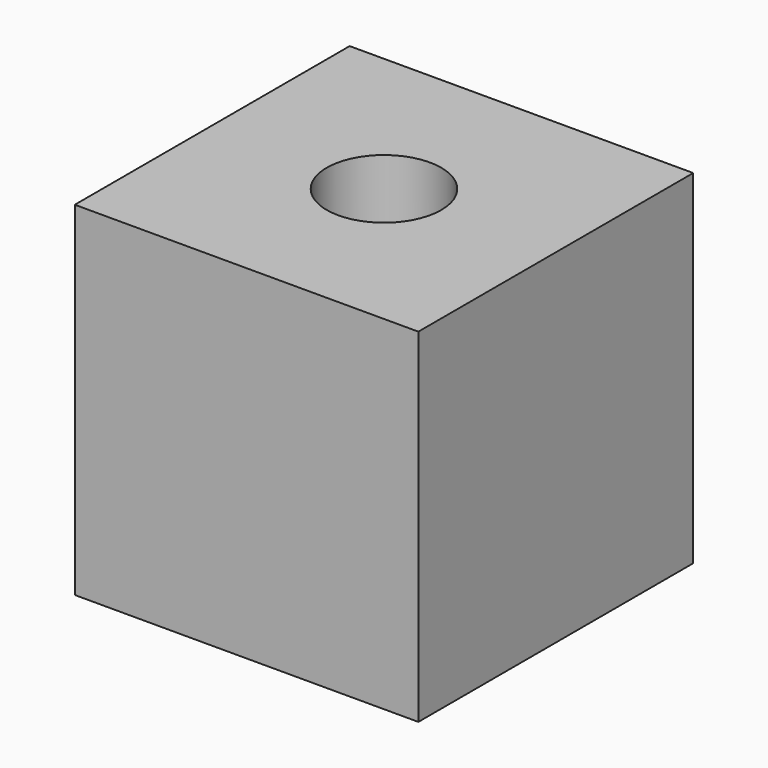
from build123d import *

# Parameters (mm, degrees)
F1_W     = 76.2
F1_H     = 76.2
F2_DEPTH = 76.2
F3_R     = 12.7
F4_DEPTH = 76.201


with BuildPart() as f2:
    # F1 (on face) → F2 (new body)
    with BuildSketch(Plane.XY):
        Rectangle(F1_W, F1_H)
    extrude(amount=F2_DEPTH)

    # F3 (on face) → F4 (cut, through all)
    with BuildSketch(Plane.XY.offset(76.2)):
        Circle(F3_R)
    extrude(amount=-F4_DEPTH, mode=Mode.SUBTRACT)


solid = f2.part
